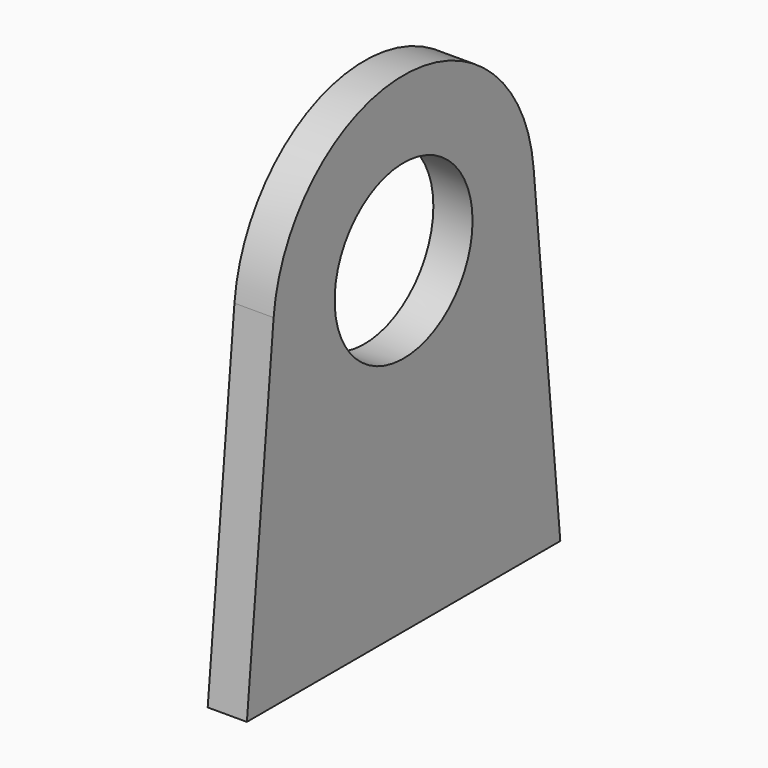
from build123d import *

# Parameters (mm, degrees)
F0_R     = 4.191
F1_DEPTH = 1.905


with BuildPart() as f1:
    # F0 (on Right) → F1 (new body)
    with BuildSketch(Plane.YZ):
        with BuildLine():
            Line((9.525, 0), (7.899945, 16.646217))
            ThreePointArc((7.899945, 16.646217), (0, 23.8125), (-7.899945, 16.646217))
            Line((-7.899945, 16.646217), (-9.525, 0))
            Line((-9.525, 0), (9.525, 0))
        make_face()
        with Locations((0, 15.875)):
            Circle(F0_R, mode=Mode.SUBTRACT)
    extrude(amount=F1_DEPTH)


solid = f1.part
